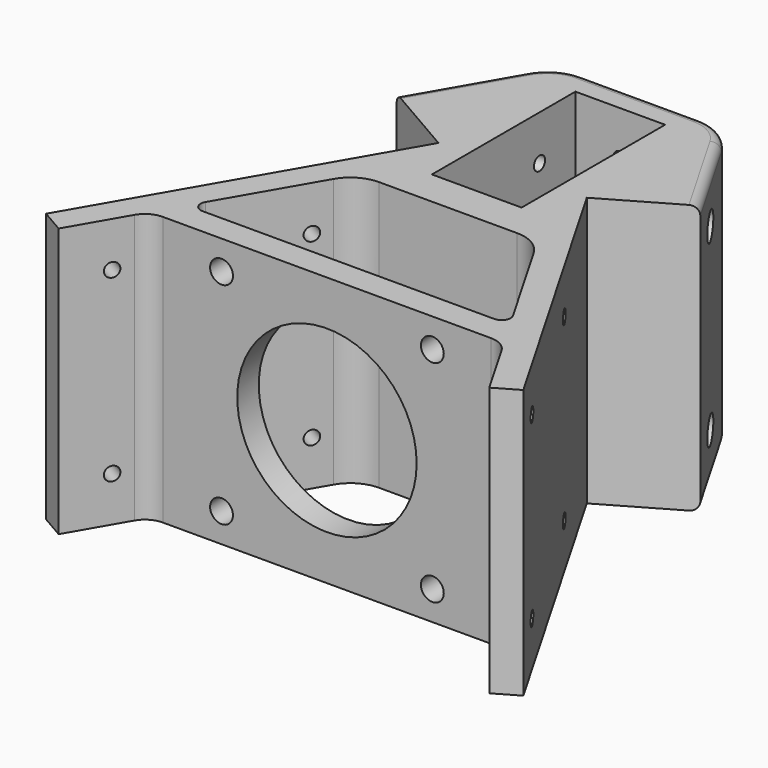
from build123d import *

# Parameters (mm, degrees)
SKETCH_W             = 20
SKETCH_H             = 40
PAD_DEPTH            = 60
SKETCH001_R          = 1.55
POCKET_DEPTH         = 6
SKETCH002_R          = 1.55
POCKET001_DEPTH      = 6
SKETCH004_R          = 1.55
POCKET003_DEPTH      = 8
SKETCH005_R          = 20
SKETCH005_R_2        = 2.55
POCKET004_DEPTH      = 20
SKETCH013_R          = 1.55
POCKET011_DEPTH      = 53.206
POCKET011_DEPTH_BACK = 53.206
SKETCH014_R          = 3
POCKET012_DEPTH      = 31.206
SKETCH015_R          = 3
POCKET013_DEPTH      = 31.206
FILLET_R             = 2


with BuildPart() as part:
    # Sketch → Pad (new body)
    with BuildSketch(Plane.XY):
        with BuildLine():
            Line((-53.205, 0), (-16.535, 63.5143031136))
            Line((-16.535, 63.5143031136), (-33.8555080757, 73.5143031136))
            Line((-33.8555080757, 73.5143031136), (-21.7278633238, 94.52))
            ThreePointArc((-13.0676092859, 99.52), (-18.0676092859, 98.1802540378), (-21.7278633238, 94.52))
            Line((-13.0676092859, 99.52), (13.0676092859, 99.52))
            ThreePointArc((21.7278633238, 94.52), (18.0676092859, 98.1802540378), (13.0676092859, 99.52))
            Line((33.8555080757, 73.5143031136), (21.7278633238, 94.52))
            Line((16.535, 63.5143031136), (33.8555080757, 73.5143031136))
            Line((53.205, 0), (16.535, 63.5143031136))
            Line((53.205, 0), (48.0088475773, -3))
            Line((48.0088475773, -3), (40.9247597743, 9.27))
            ThreePointArc((40.9247597743, 9.27), (39.0946327554, 11.1001270189), (36.5946327554, 11.77))
            Line((-36.5946327554, 11.77), (36.5946327554, 11.77))
            ThreePointArc((-36.5946327554, 11.77), (-39.0946327554, 11.1001270189), (-40.9247597743, 9.27))
            Line((-48.0088475773, -3), (-40.9247597743, 9.27))
            Line((-53.205, 0), (-48.0088475773, -3))
        make_face()
        with Locations((0, 73.52)):
            Rectangle(SKETCH_W, SKETCH_H, mode=Mode.SUBTRACT)
        with BuildLine():
            Line((-22.305213593, 41.52), (-34.2852316787, 20.77))
            ThreePointArc((-34.2852316787, 20.77), (-34.2852316787, 18.77), (-32.5531808711, 17.77))
            Line((-32.5531808711, 17.77), (32.5531808711, 17.77))
            ThreePointArc((32.5531808711, 17.77), (34.2852316787, 18.77), (34.2852316787, 20.77))
            Line((34.2852316787, 20.77), (22.305213593, 41.52))
            ThreePointArc((22.305213593, 41.52), (19.3770103627, 44.4482032303), (15.3770103627, 45.52))
            Line((15.3770103627, 45.52), (-15.3770103627, 45.52))
            ThreePointArc((-15.3770103627, 45.52), (-19.3770103627, 44.4482032303), (-22.305213593, 41.52))
        make_face(mode=Mode.SUBTRACT)
    extrude(amount=PAD_DEPTH)

    # Sketch001 (on DatumPlane) → Pocket (cut, symmetric)
    with BuildSketch(Plane(origin=(53, 0, 0), x_dir=(-0.5, 0.8660254038, 0), z_dir=(0.8660254038, 0.5, 0))):
        with Locations((47.2375, 50)):
            Circle(SKETCH001_R)
        with Locations((9.8975, 50)):
            Circle(SKETCH001_R)
        with Locations((47.2375, 10)):
            Circle(SKETCH001_R)
        with Locations((9.8975, 10)):
            Circle(SKETCH001_R)
    extrude(amount=POCKET_DEPTH, both=True, mode=Mode.SUBTRACT)

    # Sketch002 (on DatumPlane) → Pocket001 (cut, symmetric)
    with BuildSketch(Plane(origin=(-53, 0, 0), x_dir=(0.5, 0.8660254038, 0), z_dir=(0.8660254038, -0.5, 0))):
        with Locations((47.2375, 50)):
            Circle(SKETCH002_R)
        with Locations((47.2375, 10)):
            Circle(SKETCH002_R)
        with Locations((9.8975, 10)):
            Circle(SKETCH002_R)
        with Locations((9.8975, 50)):
            Circle(SKETCH002_R)
    extrude(amount=POCKET001_DEPTH, both=True, mode=Mode.SUBTRACT)

    # Sketch004 → Pocket003 (cut)
    with BuildSketch(Plane(origin=(0, 99.52, 0), x_dir=(-1, 0, 0), z_dir=(0, 1, 0))):
        with Locations((0, 50)):
            Circle(SKETCH004_R)
        with Locations((0, 10)):
            Circle(SKETCH004_R)
    extrude(amount=-POCKET003_DEPTH, mode=Mode.SUBTRACT)

    # Sketch005 → Pocket004 (cut)
    with BuildSketch(Plane.XZ):
        with Locations((0, 30)):
            Circle(SKETCH005_R)
        with Locations((23.5, 53.5)):
            Circle(SKETCH005_R_2)
        with Locations((23.5, 6.5)):
            Circle(SKETCH005_R_2)
        with Locations((-23.5, 6.5)):
            Circle(SKETCH005_R_2)
        with Locations((-23.5, 53.5)):
            Circle(SKETCH005_R_2)
    extrude(amount=-POCKET004_DEPTH, mode=Mode.SUBTRACT)

    # Sketch013 → Pocket011 (cut, two sides)
    with BuildSketch(Plane.YZ) as pocket011_sk:
        with Locations((83.52, 50)):
            Circle(SKETCH013_R)
        with Locations((83.52, 10)):
            Circle(SKETCH013_R)
    extrude(amount=-POCKET011_DEPTH, mode=Mode.SUBTRACT)
    extrude(pocket011_sk.sketch, amount=POCKET011_DEPTH_BACK, mode=Mode.SUBTRACT)

    # Sketch014 → Pocket012 (cut, through all)
    with BuildSketch(Plane.YZ.offset(22)):
        with Locations((83.52, 50)):
            Circle(SKETCH014_R)
        with Locations((83.52, 10)):
            Circle(SKETCH014_R)
    extrude(amount=POCKET012_DEPTH, mode=Mode.SUBTRACT)

    # Sketch015 → Pocket013 (cut, through all)
    with BuildSketch(Plane.YZ.offset(-22)):
        with Locations((83.52, 50)):
            Circle(SKETCH015_R)
        with Locations((83.52, 10)):
            Circle(SKETCH015_R)
    extrude(amount=-POCKET013_DEPTH, mode=Mode.SUBTRACT)

    # Fillet
    fillet_edges = [part.edges().sort_by_distance(p)[0] for p in [
        (27.791686, 84.017152, 60),
        (18.067609, 98.180254, 60),
        (0, 99.52, 60),
        (-18.067609, 98.180254, 60),
        (-27.791686, 84.017152, 60),
        (27.791686, 84.017152, 0),
        (18.067609, 98.180254, 0),
        (0, 99.52, 0),
        (-18.067609, 98.180254, 0),
        (-27.791686, 84.017152, 0),
    ]]
    fillet(fillet_edges, radius=FILLET_R)


solid = part.part
